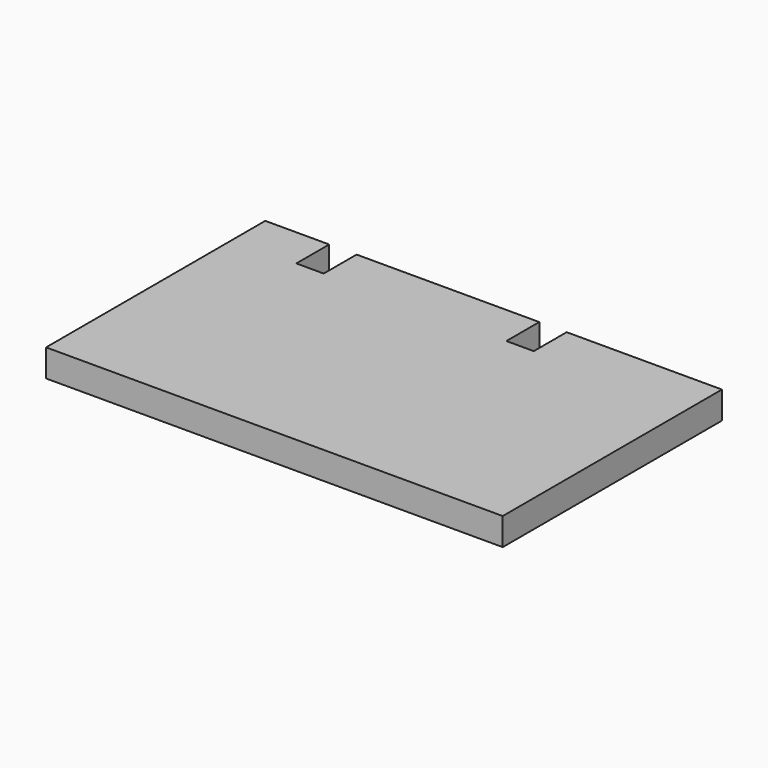
from build123d import *

# Parameters (mm, degrees)
F0_W     = 500
F0_H     = 30
F1_DEPTH = 300
F2_W     = 30
F2_H     = 30.000001
F3_DEPTH = 45
F4_W     = 30
F4_H     = 30
F5_DEPTH = 45


with BuildPart() as f1:
    # F0 (on Front) → F1 (new body)
    with BuildSketch(Plane.XZ):
        Rectangle(F0_W, F0_H)
    extrude(amount=F1_DEPTH)

    # F2 (on Front) → F3 (cut)
    with BuildSketch(Plane.XZ):
        with Locations((65, 0)):
            Rectangle(F2_W, F2_H)
    extrude(amount=F3_DEPTH, mode=Mode.SUBTRACT)

    # F4 (on Front) → F5 (cut)
    with BuildSketch(Plane.XZ):
        with Locations((-165, 0)):
            Rectangle(F4_W, F4_H)
    extrude(amount=F5_DEPTH, mode=Mode.SUBTRACT)


solid = f1.part
